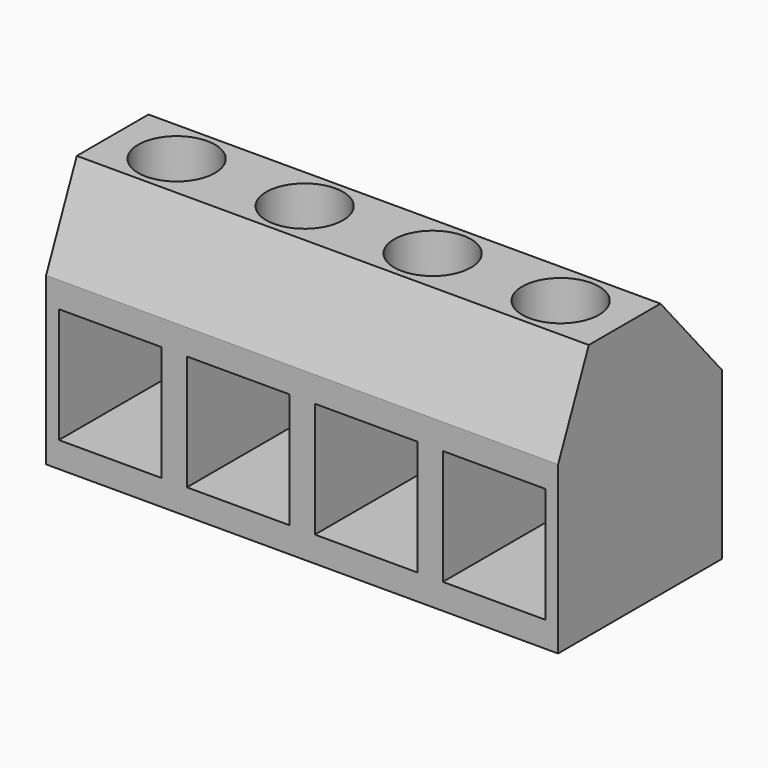
from build123d import *

# Parameters (mm, degrees)
SKETCH040_W     = 20
SKETCH040_H     = 8
PAD021_DEPTH    = 10
POCKET019_DEPTH = 20
SKETCH042_R     = 1.5
POCKET020_DEPTH = 4
SKETCH043_W     = 4
SKETCH043_H     = 4.5
POCKET021_DEPTH = 5


with BuildPart() as part:
    # Sketch040 → Pad021 (new body)
    with BuildSketch(Plane.XY):
        Rectangle(SKETCH040_W, SKETCH040_H)
    extrude(amount=PAD021_DEPTH)

    # Sketch041 (on Face2 of Pad021) → Pocket019 (cut)
    with BuildSketch(Plane.YZ.offset(10)):
        Polygon((-4, 6.5), (-2.5, 10), (1, 10), (4, 6.5), (5, 6.5), (5, 11), (-5, 11), (-5, 6.5), align=None)
    extrude(amount=-POCKET019_DEPTH, mode=Mode.SUBTRACT)

    # Sketch042 (on Face8 of Pocket019) → Pocket020 (cut)
    with BuildSketch(Plane.XY.offset(10)):
        with Locations((-7.5, -0.75)):
            Circle(SKETCH042_R)
        with Locations((-2.5, -0.75)):
            Circle(SKETCH042_R)
        with Locations((2.5, -0.75)):
            Circle(SKETCH042_R)
        with Locations((7.5, -0.75)):
            Circle(SKETCH042_R)
    extrude(amount=-POCKET020_DEPTH, mode=Mode.SUBTRACT)

    # Sketch043 (on Face6 of Pocket020) → Pocket021 (cut)
    with BuildSketch(Plane.XZ.offset(4)):
        with Locations((-7.5, 3.25)):
            Rectangle(SKETCH043_W, SKETCH043_H)
        with Locations((-2.5, 3.25)):
            Rectangle(SKETCH043_W, SKETCH043_H)
        with Locations((2.5, 3.25)):
            Rectangle(SKETCH043_W, SKETCH043_H)
        with Locations((7.5, 3.25)):
            Rectangle(SKETCH043_W, SKETCH043_H)
    extrude(amount=-POCKET021_DEPTH, mode=Mode.SUBTRACT)


solid = part.part
